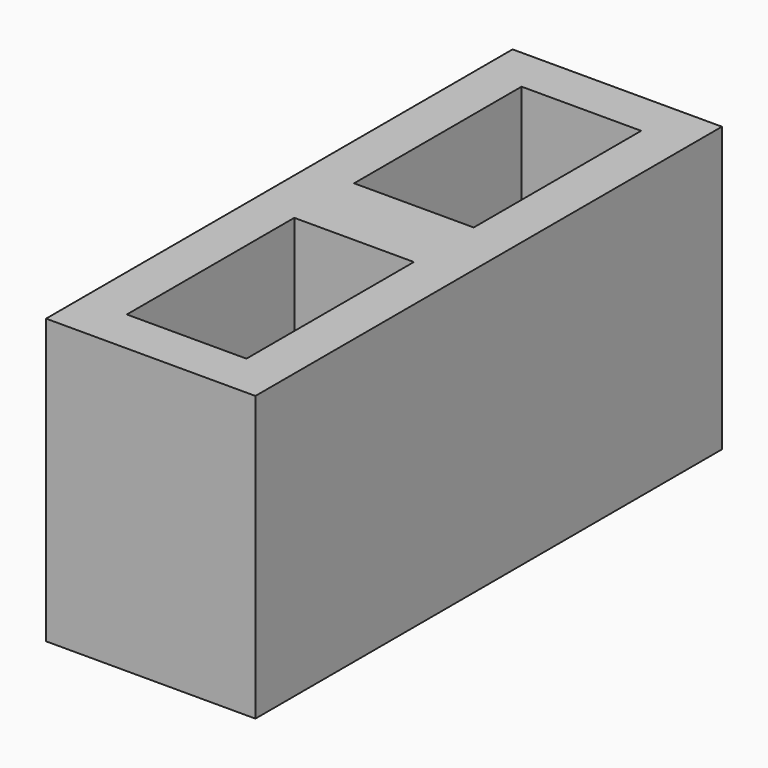
from build123d import *

# Parameters (mm, degrees)
BOX112_W               = 140
BOX112_H               = 80
BOX112_DEPTH           = 190
BOX111_W               = 140
BOX111_H               = 80
BOX111_DEPTH           = 190
BOX110_W               = 390
BOX110_H               = 140
BOX110_DEPTH           = 190
CUT015_PLACEMENT_ANGLE = 90


with BuildPart() as cube084:
    # Box112 → Box112 (new body)
    with BuildSketch(Plane(origin=(220, 30, 0), x_dir=(1, 0, 0), z_dir=(0, 0, 1))):
        with Locations((70, 40)):
            Rectangle(BOX112_W, BOX112_H)
    extrude(amount=BOX112_DEPTH)


with BuildPart() as fusion020:
    # Box111 → Box111 (new body)
    with BuildSketch(Plane(origin=(30, 30, 0), x_dir=(1, 0, 0), z_dir=(0, 0, 1))):
        with Locations((70, 40)):
            Rectangle(BOX111_W, BOX111_H)
    extrude(amount=BOX111_DEPTH)

    # Fusion020: union Cube084
    add(cube084.part)


with BuildPart() as cut015:
    # Box110 → Box110 (new body)
    with BuildSketch(Plane.XY):
        with Locations((195, 70)):
            Rectangle(BOX110_W, BOX110_H)
    extrude(amount=BOX110_DEPTH)

    # Cut015: cut Fusion020
    add(fusion020.part, mode=Mode.SUBTRACT)


with BuildPart() as cut015_1:
    # Cut015 placement: moved
    add(cut015.part.moved(Location((330, -205, -190))).rotate(Axis((330, -205, -190), (0, 0, 1)), CUT015_PLACEMENT_ANGLE))


solid = cut015_1.part
